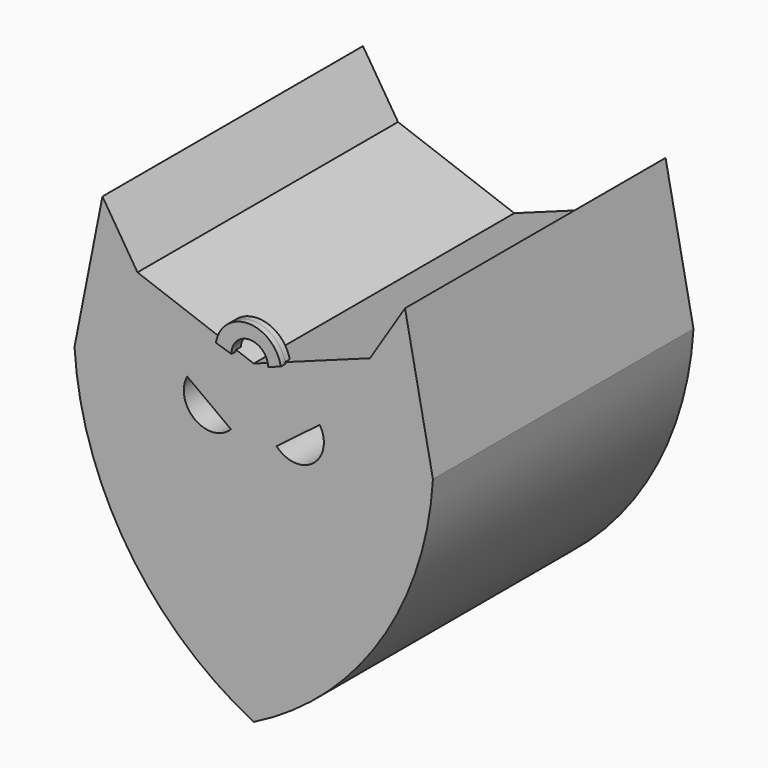
from build123d import *

# Parameters (mm, degrees)
F1_DEPTH      = 38.1
F3_DEPTH      = 38.1
F5_DEPTH      = 0.6731
F5_DEPTH_BACK = 0.6858


with BuildPart() as f1:
    # F0 (on Front) → F1 (new body)
    with BuildSketch(Plane.XZ):
        with BuildLine():
            Line((-17.6997391722, 33.1053871185), (-20.9649930975, 16.5606186919))
            ThreePointArc((-20.9649930975, 16.5606186919), (-14.7446558469, -2.1547528437), (0, -15.2525714094))
            ThreePointArc((0, -15.2525714094), (14.7446558469, -2.1547528437), (20.9649930975, 16.5606186919))
            Line((20.9649930975, 16.5606186919), (17.6997391722, 33.1053871185))
            Line((17.6997391722, 33.1053871185), (13.5980615388, 26.6233030993))
            Line((13.5980615388, 26.6233030993), (0, 21.6528698802))
            Line((0, 21.6528698802), (-13.5980615388, 26.6233030993))
            Line((-13.5980615388, 26.6233030993), (-17.6997391722, 33.1053871185))
        make_face()
    extrude(amount=F1_DEPTH)

    # F2 (on face) → F3 (cut)
    with BuildSketch(Plane.XZ.offset(38.1)):
        with BuildLine():
            Line((7.7268123423, 17.8562299685), (2.667, 14.0194606165))
            ThreePointArc((2.667, 14.0194606165), (6.9408367243, 13.6380038042), (7.7268123423, 17.8562299685))
        make_face()
        with BuildLine():
            Line((-2.667, 14.0194606165), (-7.7777689272, 17.7880864898))
            ThreePointArc((-7.7777689272, 17.7880864898), (-6.8829468537, 13.6518252435), (-2.667, 14.0194606165))
        make_face()
    extrude(amount=-F3_DEPTH, mode=Mode.SUBTRACT)

    # F4 (on face) → F5 (join, two sides)
    with BuildSketch(Plane.XZ.offset(38.1)) as f5_sk:
        with BuildLine():
            Line((2.220712835, 22.3098099232), (3.7018435542, 22.8101927787))
            ThreePointArc((3.7018435542, 22.8101927787), (3.6855396388, 22.9019358085), (3.6670169682, 22.9932567362))
            Line((3.6670169682, 22.9932567362), (2.2124818439, 22.461587595))
            ThreePointArc((2.2124818439, 22.461587595), (2.2179440641, 22.3857717928), (2.220712835, 22.3098099232))
        make_face()
        with BuildLine():
            Line((2.2124818439, 22.461587595), (3.6670169682, 22.9932567362))
            ThreePointArc((3.6670169682, 22.9932567362), (-0.0595272983, 26.0276638545), (-3.8353356865, 23.0547814577))
            Line((-3.8353356865, 23.0547814577), (-2.0586373149, 22.4053535535))
            ThreePointArc((-2.0586373149, 22.4053535535), (0.0508779389, 24.4116036609), (2.2124818439, 22.461587595))
        make_face()
        with BuildLine():
            Line((-2.0586373149, 22.4053535535), (-3.8353356865, 23.0547814577))
            ThreePointArc((-3.8353356865, 23.0547814577), (-3.8616258801, 22.9328813979), (-3.8839485496, 22.8101927787))
            Line((-3.8839485496, 22.8101927787), (-2.0625579637, 22.2297497094))
            ThreePointArc((-2.0625579637, 22.2297497094), (-2.0623983648, 22.3175918356), (-2.0586373149, 22.4053535535))
        make_face()
    extrude(amount=F5_DEPTH)
    extrude(f5_sk.sketch, amount=-F5_DEPTH_BACK)


solid = f1.part
